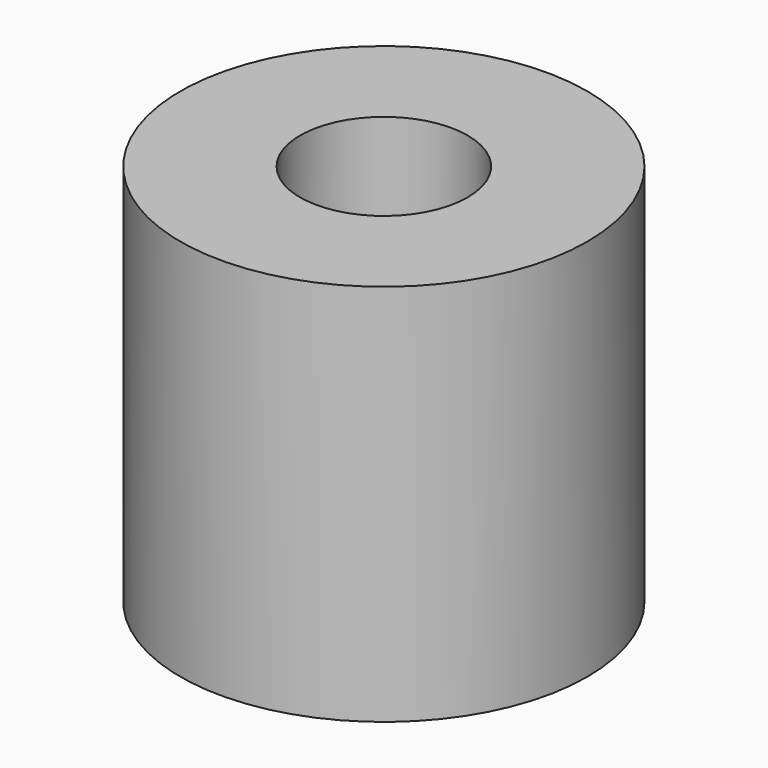
from build123d import *

# Parameters (mm, degrees)
CYLINDER_R        = 1.75
CYLINDER_DEPTH    = 10
CYLINDER001_R     = 4.25
CYLINDER001_DEPTH = 8


with BuildPart() as spacer_hole_cylinder:
    # Cylinder → Cylinder (new body)
    with BuildSketch(Plane.XY.offset(-1)):
        Circle(CYLINDER_R)
    extrude(amount=CYLINDER_DEPTH)


with BuildPart() as spacer_cut:
    # Cylinder001 → Cylinder001 (new body)
    with BuildSketch(Plane.XY):
        Circle(CYLINDER001_R)
    extrude(amount=CYLINDER001_DEPTH)

    # Cut002: cut spacer-hole-cylinder
    add(spacer_hole_cylinder.part, mode=Mode.SUBTRACT)


solid = spacer_cut.part
